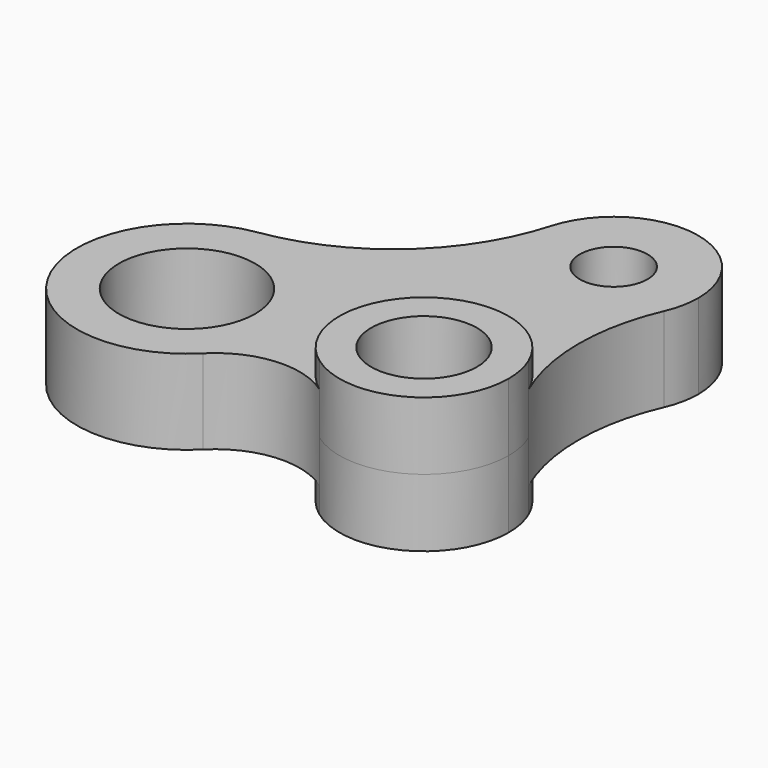
from build123d import *

# Parameters (mm, degrees)
F0_R     = 6.25
F1_DEPTH = 8
F0_R_2   = 4
F0_R_3   = 8.05
F2_DEPTH = 5


with BuildPart() as f1:
    # F0 (on Top) → F1 (new body, symmetric)
    with BuildSketch(Plane.XY):
        with BuildLine():
            ThreePointArc((-13.2072802739, 16.2232413122), (-13.4182171347, 18.2663377013), (-14.042128845, 20.2232412226))
            ThreePointArc((-14.042128845, 20.2232412226), (-29.4860823685, 24.0063412253), (-29.055494634, 8.1116207097))
            ThreePointArc((-29.055494634, 8.1116207097), (-18.6510835925, 7.3214958766), (-13.2072802739, 16.2232413122))
        make_face()
        with Locations((-23.2072802739, 16.2232413122)):
            Circle(F0_R, mode=Mode.SUBTRACT)
    extrude(amount=F1_DEPTH, both=True)


with BuildPart() as f2:
    # F0 (on Top) → F2 (new body, symmetric)
    with BuildSketch(Plane.XY):
        with BuildLine():
            ThreePointArc((-14.042128845, 40.2232414017), (-26.5828145137, 34.8101775922), (-32.8257640324, 46.9590721162))
            ThreePointArc((-32.8257640324, 46.9590721162), (-40.3562861134, 35.0308021348), (-53.1452019023, 29.0779859523))
            ThreePointArc((-53.1452019023, 29.0779859523), (-42.7276865681, 26.0769964636), (-38.2072802739, 16.2232413122))
            ThreePointArc((-38.2072802739, 16.2232413122), (-39.1907123191, 11.2631914548), (-41.9922179028, 7.0535834398))
            ThreePointArc((-41.9922179028, 7.0535834398), (-35.7188429094, 9.9667224531), (-29.055494634, 8.1116207097))
            ThreePointArc((-29.055494634, 8.1116207097), (-29.4860823685, 24.0063412253), (-14.042128845, 20.2232412226))
            ThreePointArc((-14.042128845, 20.2232412226), (-16.1292504093, 30.2232413122), (-14.042128845, 40.2232414017))
        make_face()
        with BuildLine():
            ThreePointArc((-14.042128845, 40.2232414017), (-13.4182171347, 42.1801449231), (-13.2072802739, 44.2232413122))
            ThreePointArc((-13.2072802739, 44.2232413122), (-21.8261281434, 54.1274030027), (-32.8257640324, 46.9590721162))
            ThreePointArc((-32.8257640324, 46.9590721162), (-26.5828145137, 34.8101775922), (-14.042128845, 40.2232414017))
        make_face()
        with Locations((-23.2072802739, 44.2232413122)):
            Circle(F0_R_2, mode=Mode.SUBTRACT)
        with BuildLine():
            ThreePointArc((-38.2072802739, 16.2232413122), (-42.7276865681, 26.0769964636), (-53.1452019023, 29.0779859523))
            ThreePointArc((-53.1452019023, 29.0779859523), (-62.8050287992, 10.3502327863), (-41.9922179028, 7.0535834398))
            ThreePointArc((-41.9922179028, 7.0535834398), (-39.1907123191, 11.2631914548), (-38.2072802739, 16.2232413122))
        make_face()
        with Locations((-51.2072802739, 16.2232413122)):
            Circle(F0_R_3, mode=Mode.SUBTRACT)
    extrude(amount=F2_DEPTH, both=True)


solid = Compound([f1.part, f2.part])
